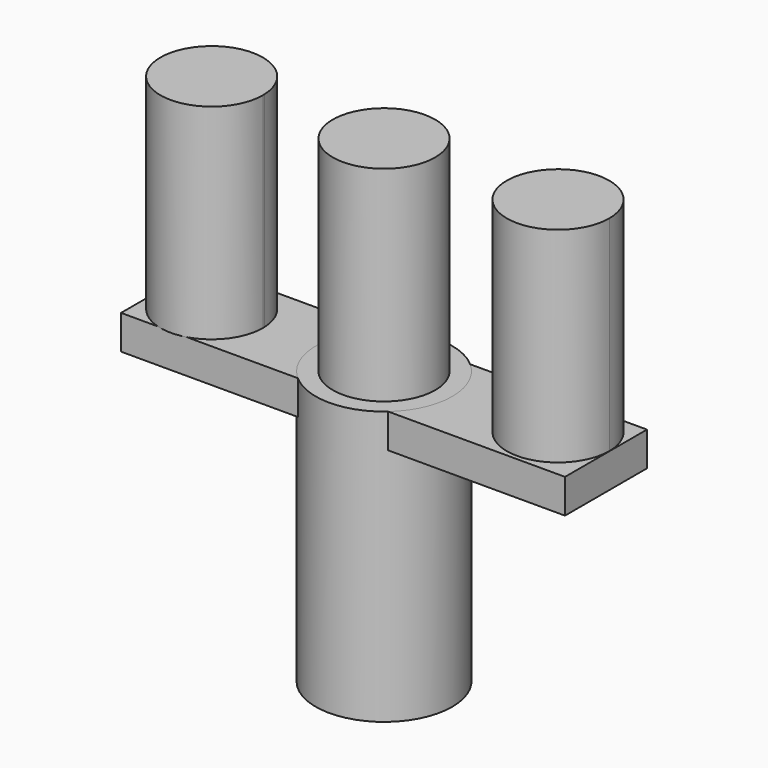
from build123d import *

# Parameters (mm, degrees)
F3_DEPTH = 76.2
F1_W     = 165.1
F1_H     = 38.1
F4_DEPTH = 12.7
F2_R     = 25.4
F5_DEPTH = 101.6


with BuildPart() as f3:
    # F0 (on Top) → F3 (new body)
    with BuildSketch(Plane.XY):
        with BuildLine():
            ThreePointArc((-19.05, 0), (0, -19.05), (19.05, 0))
            ThreePointArc((19.05, 0), (0, 19.05), (-19.05, 0))
        make_face()
        with BuildLine():
            ThreePointArc((-44.43467, -0.764096), (-44.438503, -0.381971), (-44.45, 0))
            ThreePointArc((-44.45, 0), (-82.530837, -1.146221), (-44.43467, -0.764096))
        make_face()
        with BuildLine():
            ThreePointArc((82.481836, 1.61009), (62.62607, 20.643041), (44.45, 0))
            ThreePointArc((44.45, 0), (64.237602, -17.422862), (82.481836, 1.61009))
        make_face()
    extrude(amount=F3_DEPTH)


with BuildPart() as f4:
    # F1 (on Top) → F4 (new body)
    with BuildSketch(Plane.XY):
        Rectangle(F1_W, F1_H)
    extrude(amount=-F4_DEPTH)


with BuildPart() as f5:
    # F2 (on Top) → F5 (new body)
    with BuildSketch(Plane.XY):
        Circle(F2_R)
    extrude(amount=-F5_DEPTH)


solid = Compound([f3.part, f4.part, f5.part])
